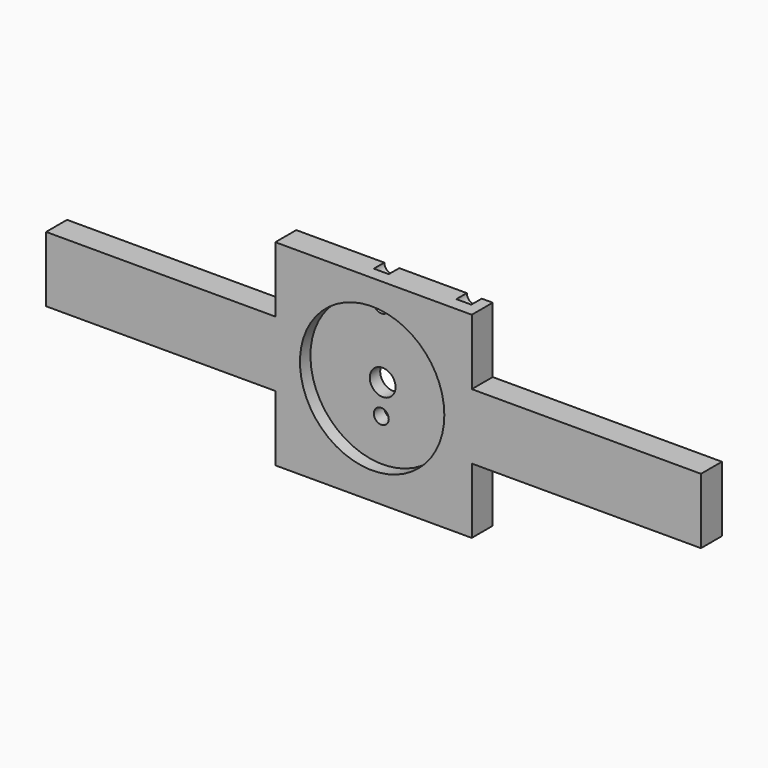
from build123d import *

# Parameters (mm, degrees)
F0_W     = 20.729122051
F0_H     = 12.7
F0_W_2   = 12.7
F0_W_3   = 11.020877949
F0_W_4   = 38.1
F0_W_5   = 44.45
F1_DEPTH = 5.08
F2_R     = 14
F3_DEPTH = 2.54
F4_R     = 1.45
F4_R_2   = 2.5
F5_DEPTH = 25.4


with BuildPart() as f1:
    # F0 (on Front) → F1 (new body)
    with BuildSketch(Plane.XZ):
        with Locations((31.7778353898, -8.7548155423)):
            Rectangle(F0_W, F0_H)
        with Locations((48.4923964153, -8.7548155423)):
            Rectangle(F0_W_2, F0_H)
        with Locations((60.3528353898, -8.7548155423)):
            Rectangle(F0_W_3, F0_H)
        with Locations((2.3632743643, -8.7548155423)):
            Rectangle(F0_W_4, F0_H)
        with Locations((2.3632743643, 3.9451844577)):
            Rectangle(F0_W_4, F0_H)
        with Locations((-38.9117256357, -8.7548155423)):
            Rectangle(F0_W_5, F0_H)
        with Locations((2.3632743643, -21.4548155423)):
            Rectangle(F0_W_4, F0_H)
    extrude(amount=F1_DEPTH)

    # F2 (on face) → F3 (cut)
    with BuildSketch(Plane.XZ.offset(5.08)):
        with Locations((2.0971329576, -8.5653651081)):
            Circle(F2_R)
    extrude(amount=-F3_DEPTH, mode=Mode.SUBTRACT)

    # F4 (on face) → F5 (cut)
    with BuildSketch(Plane.XZ.offset(2.54)):
        with Locations((17.8370033559, 10.2951844577)):
            Circle(F4_R)
        with Locations((1.8370033559, 10.2951844577)):
            Circle(F4_R)
        with Locations((1.8370033559, -14.4356723465)):
            Circle(F4_R)
        with Locations((1.8370033559, 4.5643276535)):
            Circle(F4_R)
        with Locations((2.0971329576, -8.5653651081)):
            Circle(F4_R_2)
    extrude(amount=-F5_DEPTH, mode=Mode.SUBTRACT)


solid = f1.part
